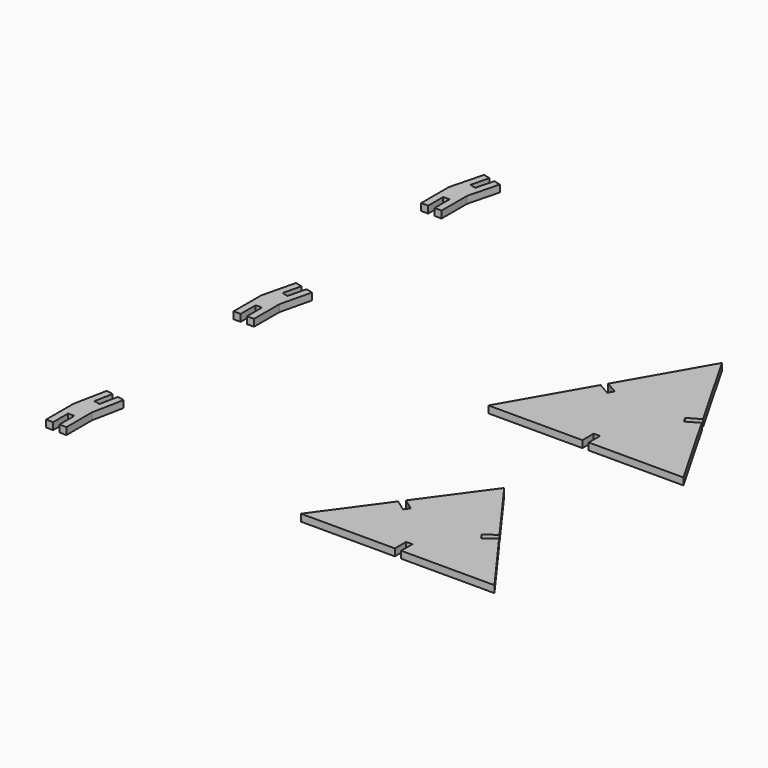
from build123d import *

# Parameters (mm, degrees)
F2_DEPTH  = 3
F4_DEPTH  = 3
F6_DEPTH  = 3
F8_DEPTH  = 3
F10_DEPTH = 3


with BuildPart() as f2:
    # F1 (on Top) → F2 (new body)
    with BuildSketch(Plane.XY):
        Polygon((19.968103654, 34.8310246878), (0, 0), (40.0688946405, 0), (40.0688946405, 6), (42.7688946405, 6), (42.7688946405, 0), (83.137789281, 0), (63.3188913913, 34.5707601304), (58.1136002415, 31.5866448435), (56.7707483624, 33.9290258609), (61.9760395122, 36.9131411478), (41.5688946405, 72.509999976), (21.3109555331, 37.1734057053), (26.5162466829, 34.1892904184), (25.1733948038, 31.846909401), align=None)
    extrude(amount=F2_DEPTH)


with BuildPart() as f4:
    # F3 (on Top) → F4 (new body)
    with BuildSketch(Plane.XY):
        Polygon((19.7521299169, -72.8135254916), (0, -100), (40.0676155907, -100), (40.0676155907, -94), (42.7676155907, -94), (42.7676155907, -100), (82.5352311814, -100), (62.7831012645, -72.8135254916), (57.9289992982, -76.3402370053), (56.3419791171, -74.1558911205), (61.1960810833, -70.6291796067), (41.2676155907, -43.2), (21.3391500981, -70.6291796068), (26.1932520644, -74.1558911205), (24.6062318832, -76.3402370053), align=None)
    extrude(amount=F4_DEPTH)


with BuildPart() as f6:
    # F5 (on Top) → F6 (new body)
    with BuildSketch(Plane.XY):
        Polygon((-103, 0), (-100, 0), (-100, 13.642271658), (-96.7921274148, 26.9020276688), (-99.7080104166, 27.6074540081), (-101.5891473214, 19.8317660035), (-104.2134420229, 20.4666497088), (-102.3323051181, 28.2423377135), (-105.2481881199, 28.9477640528), (-108.7, 14.6796838499), (-108.7, 0), (-105.7, 0), (-105.7, 8), (-103, 8), align=None)
    extrude(amount=F6_DEPTH)


with BuildPart() as f8:
    # F7 (on Top) → F8 (new body)
    with BuildSketch(Plane.XY):
        Polygon((-103, -100), (-100, -100), (-100, -86.2967959619), (-97.314910005, -72.8592332131), (-100.2567539806, -72.2713947803), (-101.8243231345, -80.1163120487), (-104.4719827126, -79.5872574593), (-102.9044135587, -71.7423401909), (-105.8462575343, -71.1545017582), (-108.7, -85.4360876724), (-108.7, -100), (-105.7, -100), (-105.7, -92), (-103, -92), align=None)
    extrude(amount=F8_DEPTH)


with BuildPart() as f10:
    # F9 (on Top) → F10 (new body)
    with BuildSketch(Plane.XY):
        Polygon((-103, 100), (-100, 100), (-100, 113.6210118647), (-96.6125920963, 126.8140945943), (-99.5183415797, 127.5601642558), (-101.507860677, 119.8114989668), (-104.1230352121, 120.4829616621), (-102.1335161147, 128.2316269511), (-105.0392655981, 128.9776966126), (-108.7, 114.7200774571), (-108.7, 100), (-105.7, 100), (-105.7, 108), (-103, 108), align=None)
    extrude(amount=F10_DEPTH)


solid = Compound([f2.part, f4.part, f6.part, f8.part, f10.part])
